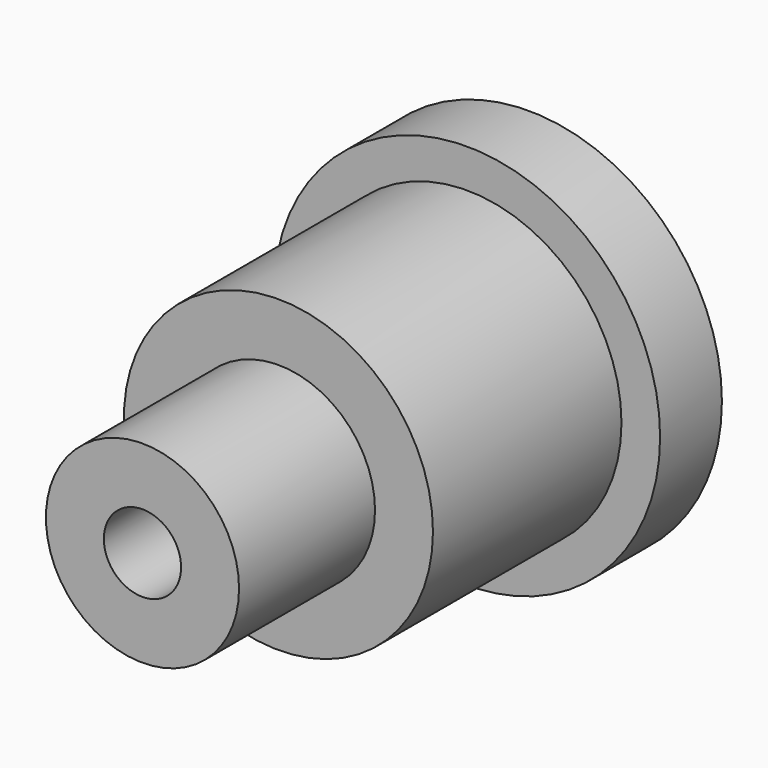
from build123d import *

# Parameters (mm, degrees)
F0_R     = 5
F0_R_2   = 4
F1_DEPTH = 2
F0_R_3   = 2.5
F2_DEPTH = 8.1
F0_R_4   = 1
F3_DEPTH = 12.5
F4_DEPTH = 12.5
F6_D     = 2
F6_DEPTH = 4
F6_TIP   = 0.600860619


with BuildPart() as f1:
    # F0 (on Front) → F1 (new body)
    with BuildSketch(Plane.XZ):
        Circle(F0_R)
        Circle(F0_R_2, mode=Mode.SUBTRACT)
    extrude(amount=F1_DEPTH)

    # F0 (on Front) → F2 (join)
    with BuildSketch(Plane.XZ):
        Circle(F0_R_2)
        Circle(F0_R_3, mode=Mode.SUBTRACT)
    extrude(amount=F2_DEPTH)

    # F0 (on Front) → F3 (join)
    with BuildSketch(Plane.XZ):
        Circle(F0_R_3)
        Circle(F0_R_4, mode=Mode.SUBTRACT)
    extrude(amount=F3_DEPTH)

    # F0 (on Front) → F4 (join)
    with BuildSketch(Plane.XZ):
        Circle(F0_R_4)
    extrude(amount=F4_DEPTH)

    # F6
    with Locations(Plane.XZ.offset(12.5)):
        with Locations((0, 0)):
            Hole(F6_D / 2, depth=F6_DEPTH)
            with Locations((0, 0, -(F6_DEPTH + F6_TIP / 2))):  # 118° drill point
                Cone(0, F6_D / 2, F6_TIP, mode=Mode.SUBTRACT)


solid = f1.part
